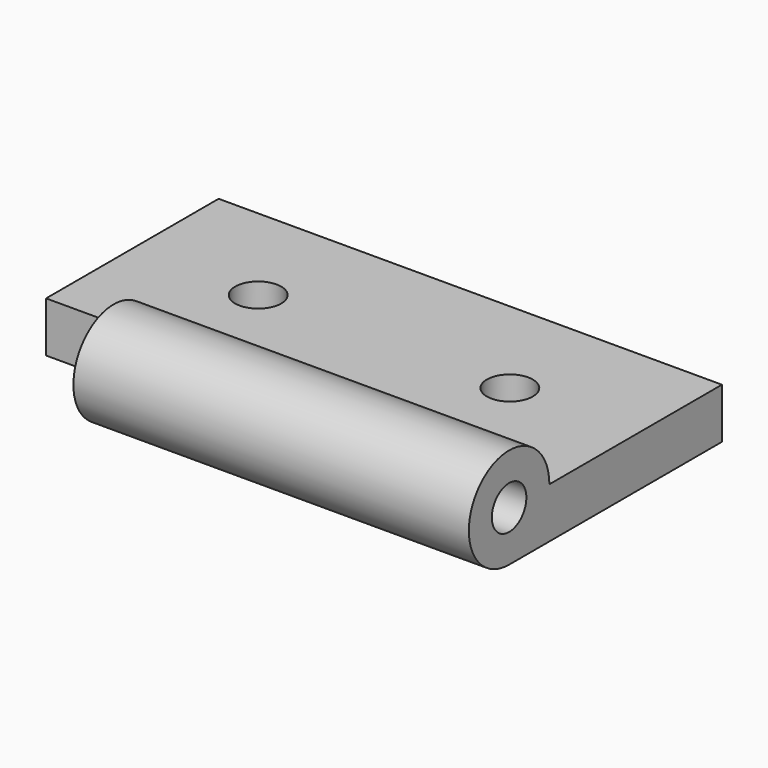
from build123d import *

# Parameters (mm, degrees)
F1_DEPTH = 3
F2_R     = 1.5
F2_W     = 15
F2_H     = 0.5
F3_DEPTH = 35
F4_DEPTH = 25
F5_DEPTH = 35
F6_DEPTH = 27.5


with BuildPart() as f1:
    # F0 (on Top) → F1 (new body)
    with BuildSketch(Plane.XY):
        with BuildLine():
            Line((-17.5, 0), (-17.5, -7.5))
            Line((-17.5, -7.5), (17.5, -7.5))
            Line((17.5, -7.5), (17.5, 0))
            Line((17.5, 0), (10.35, 0))
            ThreePointArc((10.35, 0), (8.75, -1.6), (7.15, 0))
            Line((7.15, 0), (0, 0))
            Line((0, 0), (-7.15, 0))
            ThreePointArc((-7.15, 0), (-8.75, -1.6), (-10.35, 0))
            Line((-10.35, 0), (-17.5, 0))
        make_face()
        with BuildLine():
            Line((-17.5, 7.5), (-17.5, 0))
            Line((-17.5, 0), (-10.35, 0))
            ThreePointArc((-10.35, 0), (-8.75, 1.6), (-7.15, 0))
            Line((-7.15, 0), (0, 0))
            Line((0, 0), (7.15, 0))
            ThreePointArc((7.15, 0), (8.75, 1.6), (10.35, 0))
            Line((10.35, 0), (17.5, 0))
            Line((17.5, 0), (17.5, 7.5))
            Line((17.5, 7.5), (-17.5, 7.5))
        make_face()
    extrude(amount=F1_DEPTH)

    # F2 (on face) → F3 (join)
    with BuildSketch(Plane.YZ.offset(17.5)):
        with BuildLine():
            ThreePointArc((-11, -0.5), (-8.5251262658, 0.5251262658), (-7.5, 3))
            ThreePointArc((-7.5, 3), (-13.4748737342, 5.4748737342), (-11, -0.5))
        make_face()
        with Locations((-11, 3)):
            Circle(F2_R, mode=Mode.SUBTRACT)
        with BuildLine():
            Line((-7.5, 0), (-7.5, 3))
            ThreePointArc((-7.5, 3), (-8.5251262658, 0.5251262658), (-11, -0.5))
            Line((-11, -0.5), (-7.5, -0.5))
            Line((-7.5, -0.5), (-7.5, 0))
        make_face()
        with Locations((0, -0.25)):
            Rectangle(F2_W, F2_H)
    extrude(amount=-F3_DEPTH)

    # F4 (cut): faces of the model
    f4_faces = [f1.faces().sort_by_distance(p)[0] for p in [
        (-8.75, 0, 0),
        (8.75, 0, 0),
    ]]
    extrude(f4_faces, amount=-F4_DEPTH, mode=Mode.SUBTRACT)

    # F2 (on face) → F5 (cut)
    with BuildSketch(Plane.YZ.offset(17.5)):
        with BuildLine():
            ThreePointArc((-11, -0.5), (-8.5251262658, 0.5251262658), (-7.5, 3))
            ThreePointArc((-7.5, 3), (-13.4748737342, 5.4748737342), (-11, -0.5))
        make_face()
        with Locations((-11, 3)):
            Circle(F2_R, mode=Mode.SUBTRACT)
        with BuildLine():
            Line((-7.5, 0), (-7.5, 3))
            ThreePointArc((-7.5, 3), (-8.5251262658, 0.5251262658), (-11, -0.5))
            Line((-11, -0.5), (-7.5, -0.5))
            Line((-7.5, -0.5), (-7.5, 0))
        make_face()
    extrude(amount=-F5_DEPTH, mode=Mode.SUBTRACT)

    # F2 (on face) → F6 (join)
    with BuildSketch(Plane.YZ.offset(17.5)):
        with BuildLine():
            ThreePointArc((-11, -0.5), (-8.5251262658, 0.5251262658), (-7.5, 3))
            ThreePointArc((-7.5, 3), (-13.4748737342, 5.4748737342), (-11, -0.5))
        make_face()
        with Locations((-11, 3)):
            Circle(F2_R, mode=Mode.SUBTRACT)
        with BuildLine():
            Line((-7.5, 0), (-7.5, 3))
            ThreePointArc((-7.5, 3), (-8.5251262658, 0.5251262658), (-11, -0.5))
            Line((-11, -0.5), (-7.5, -0.5))
            Line((-7.5, -0.5), (-7.5, 0))
        make_face()
    extrude(amount=-F6_DEPTH)


solid = f1.part
